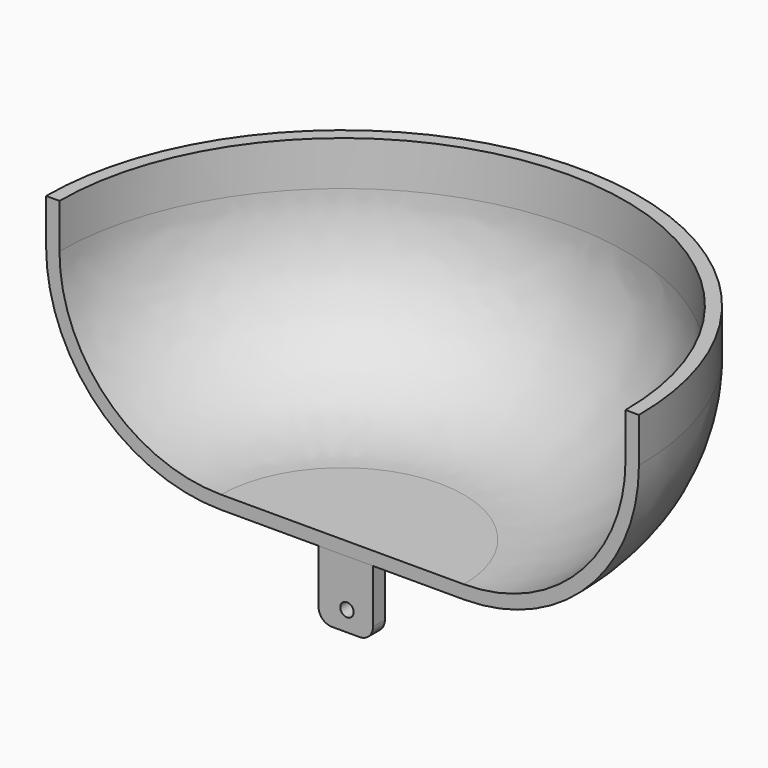
from build123d import *

# Parameters (mm, degrees)
F1_ANGLE = 180
F2_W     = 20.32908
F2_H     = 5.544317
F3_DEPTH = 25
F4_R     = 5
F6_D     = 5


with BuildPart() as f1:
    # F0 (on Front) → F1 (revolve)
    with BuildSketch(Plane.XZ):
        with BuildLine():
            Line((-45.302505, -65.335167), (0, -65.335167))
            ThreePointArc((0, -65.335167), (46.19894, -46.19894), (65.335167, 0))
            Line((65.335167, 0), (65.335167, 16.566604))
            Line((65.335167, 16.566604), (60.335167, 16.566604))
            Line((60.335167, 16.566604), (60.335167, 0))
            ThreePointArc((60.335167, 0), (42.663406, -42.663406), (0, -60.335167))
            Line((0, -60.335167), (-45.302505, -60.335167))
            Line((-45.302505, -60.335167), (-45.302505, -65.335167))
        make_face()
    revolve(axis=Axis((-45.302505, 0, -62.835167), (0, 0, 1)), revolution_arc=F1_ANGLE)

    # F2 (on face) → F3 (join)
    with BuildSketch(Plane(origin=(0, 0, -65.335167), x_dir=(1, 0, 0), z_dir=(0, 0, -1))):
        with Locations((-44.08326, -2.772158)):
            Rectangle(F2_W, F2_H)
    extrude(amount=F3_DEPTH)

    # F4
    f4_edges = [f1.edges().sort_by_distance(p)[0] for p in [
        (-33.91872, 2.772159, -90.335167),
        (-54.2478, 2.772159, -90.335167),
    ]]
    fillet(f4_edges, radius=F4_R)

    # F6 (through all)
    with Locations(Plane.XZ):
        with Locations((-43.633632, -82.894862)):
            Hole(F6_D / 2)


solid = f1.part
